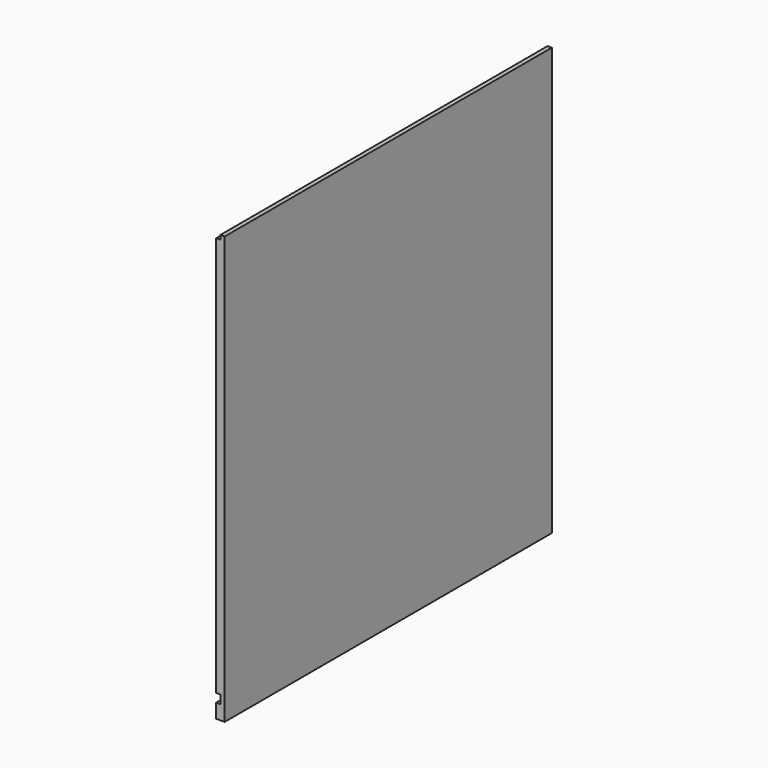
from build123d import *

# Parameters (mm, degrees)
F0_W     = 914.4
F0_H     = 955.675
F2_DEPTH = 9.525
F1_W     = 904.875
F1_H     = 895.35
F1_H_2   = 31.75
F3_DEPTH = 9.525
F5_D     = 6.35
F5_DEPTH = 6.35
F5_TIP   = 1.9077324654


with BuildPart() as f2:
    # F0 (on Right) → F2 (new body)
    with BuildSketch(Plane.YZ):
        Rectangle(F0_W, F0_H)
    extrude(amount=F2_DEPTH)

    # F1 (on face) → F3 (join)
    with BuildSketch(Plane.YZ):
        with Locations((-4.7625, 20.6375)):
            Rectangle(F1_W, F1_H)
        with Locations((-4.7625, -461.9625)):
            Rectangle(F1_W, F1_H_2)
    extrude(amount=-F3_DEPTH)

    # F5
    with Locations(Plane(origin=(-9.525, 0, 0), x_dir=(0, -1, 0), z_dir=(-1, 0, 0))):
        with Locations((-355.6, 274.6375), (355.6, -233.3625), (-355.6, -30.1625), (355.6, 71.4375), (355.6, -30.1625), (0, -30.1625), (0, -233.3625), (355.6, 274.6375), (0, -131.7625), (0, 71.4375), (-355.6, 71.4375), (-355.6, -131.7625), (0, 274.6375), (-355.6, 173.0375), (355.6, 173.0375), (0, 173.0375), (355.6, -131.7625), (-355.6, -233.3625)):
            Hole(F5_D / 2, depth=F5_DEPTH)
            with Locations((0, 0, -(F5_DEPTH + F5_TIP / 2))):  # 118° drill point
                Cone(0, F5_D / 2, F5_TIP, mode=Mode.SUBTRACT)


solid = f2.part
